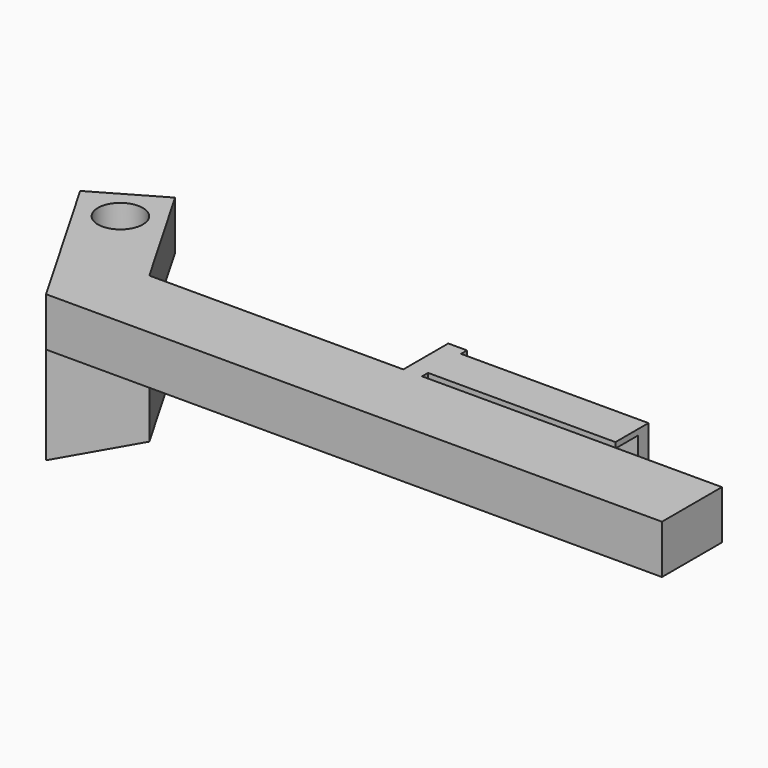
from build123d import *

# Parameters (mm, degrees)
PAD_DEPTH       = 13
PAD001_DEPTH    = 13
PAD002_DEPTH    = 13
SKETCH004_R     = 6
POCKET_DEPTH    = 39.001
SKETCH006_W     = 17
SKETCH006_H     = 10
POCKET001_DEPTH = 60


with BuildPart() as part:
    # Sketch001 → Pad (new body)
    with BuildSketch(Plane.XY):
        Polygon((-90.545, 50.821844), (-72.75, 20), (-5, 20), (-5, 35), (0, 35), (0, 33), (50, 33), (50, 22), (0, 22), (0, 20), (80, 20), (80, 0), (-84.297005, 0), (-107.865508, 40.821844), align=None)
    extrude(amount=PAD_DEPTH)

    # Sketch002 (on Face15 of Pad) → Pad001 (join)
    with BuildSketch(Plane(origin=(0, 0, 0), x_dir=(1, 0, 0), z_dir=(0, 0, -1))):
        Polygon((-84.297005, 0), (-72.75, -20), (-77.75, -28.660254), (-89.297005, -8.660254), align=None)
    extrude(amount=PAD001_DEPTH)

    # Sketch003 (on Face12 of Pad001) → Pad002 (join)
    with BuildSketch(Plane(origin=(0, 0, -13), x_dir=(1, 0, 0), z_dir=(0, 0, -1))):
        Polygon((-84.297005, 0), (-107.865508, -40.821844), (-90.545, -50.821844), (-72.75, -20), align=None)
    extrude(amount=PAD002_DEPTH)

    # Sketch004 (on Face26 of Pad002) → Pocket (cut, through all)
    with BuildSketch(Plane(origin=(0, 0, -26), x_dir=(1, 0, 0), z_dir=(0, 0, -1))):
        with Locations((-94.205254, -37.16159)):
            Circle(SKETCH004_R)
    extrude(amount=-POCKET_DEPTH, mode=Mode.SUBTRACT)

    # Sketch006 (on Face21 of Pocket) → Pocket001 (cut)
    with BuildSketch(Plane.YZ.offset(50)):
        with Locations((21, 6.5)):
            Rectangle(SKETCH006_W, SKETCH006_H)
    extrude(amount=-POCKET001_DEPTH, mode=Mode.SUBTRACT)


solid = part.part
